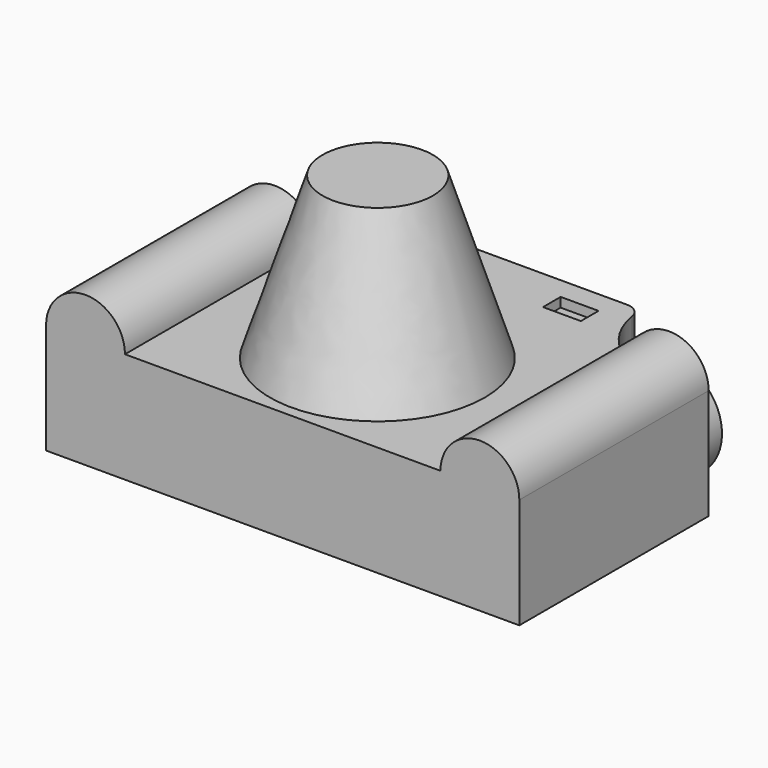
from build123d import *

# Parameters (mm, degrees)
F1_DEPTH  = 75
F3_R      = 3.442956
F4_DEPTH  = 49.9
F5_R      = 17.5
F6_DEPTH  = 1
F6_FACE_R = 17.5
F2_R      = 34.054107
F8_W      = 70
F8_H      = 2.474771
F8_H_2    = 23.374684
F9_DEPTH  = 35
F10_R     = 5
F11_R     = 16
F12_DEPTH = 10.3
F13_W     = 12
F13_H     = 7
F14_DEPTH = 3
F15_W     = 12
F15_H     = 7
F16_DEPTH = 3


with BuildPart() as f1:
    # F0 (on Front) → F1 (new body)
    with BuildSketch(Plane.XZ):
        Polygon((75, -17.5), (75, 17.5), (50, 17.5), (-50, 17.5), (-75, 17.5), (-75, -17.5), align=None)
        with BuildLine():
            Line((50, 17.5), (75, 17.5))
            ThreePointArc((75, 17.5), (62.5, 30), (50, 17.5))
        make_face()
        with BuildLine():
            Line((-75, 17.5), (-50, 17.5))
            ThreePointArc((-50, 17.5), (-62.5, 30), (-75, 17.5))
        make_face()
    extrude(amount=F1_DEPTH)

    # F3 (on face) → F4 (join)
    with BuildSketch(Plane.XY.offset(17.5)):
        with Locations((0, -37.356421)):
            Circle(F3_R)
    extrude(amount=F4_DEPTH)

    # F5 (on face) → F6 (join)
    with BuildSketch(Plane.XY.offset(67.4)):
        with Locations((0, -37.356421)):
            Circle(F5_R)
    extrude(amount=F6_DEPTH)

    # F6_face (on face) → F7 section 0
    with BuildSketch(Plane(origin=(0, -37.356421, 68.4), x_dir=(1, 0, 0), z_dir=(0, 0, 1))):
        Circle(F6_FACE_R)
    # F2 (on face) → F7 section 1
    with BuildSketch(Plane.XY.offset(17.5)):
        with Locations((0, -37.5)):
            Circle(F2_R)
    loft()

    # F8 (on face) → F9 (join)
    with BuildSketch(Plane.XY.offset(17.5)):
        with Locations((0, -1.237386)):
            Rectangle(F8_W, F8_H)
        with BuildLine():
            Line((-50, 0), (-35, 0))
            Line((-35, 0), (-35, 23.374684))
            ThreePointArc((-35, 23.374684), (-39.072516, 9.487857), (-50, 0))
        make_face()
        with Locations((0, 11.687342)):
            Rectangle(F8_W, F8_H_2)
        with BuildLine():
            Line((35, 23.374684), (35, 0))
            Line((35, 0), (50, 0))
            ThreePointArc((50, 0), (39.072516, 9.487857), (35, 23.374684))
        make_face()
    extrude(amount=-F9_DEPTH)

    # F10
    f10_edges = [f1.edges().sort_by_distance(p)[0] for p in [
        (35, 23.374684, 0),
        (-35, 23.374684, 0),
    ]]
    fillet(f10_edges, radius=F10_R)

    # F11 (on face) → F12 (join)
    with BuildSketch(Plane(origin=(0, 0, 0), x_dir=(-1, 0, 0), z_dir=(0, 1, 0))):
        with Locations((-55, 0)):
            Circle(F11_R)
        with Locations((55, 0)):
            Circle(F11_R)
    extrude(amount=F12_DEPTH)

    # F13 (on face) → F14 (cut)
    with BuildSketch(Plane.XY.offset(17.5)):
        with Locations((21, 12.874684)):
            Rectangle(F13_W, F13_H)
        with Locations((-21, 12.874684)):
            Rectangle(F13_W, F13_H)
    extrude(amount=-F14_DEPTH, mode=Mode.SUBTRACT)

    # F15 (on face) → F16 (cut)
    with BuildSketch(Plane(origin=(0, 0, -17.5), x_dir=(1, 0, 0), z_dir=(0, 0, -1))):
        with Locations((21, -14.107105)):
            Rectangle(F15_W, F15_H)
    extrude(amount=-F16_DEPTH, mode=Mode.SUBTRACT)


solid = f1.part
